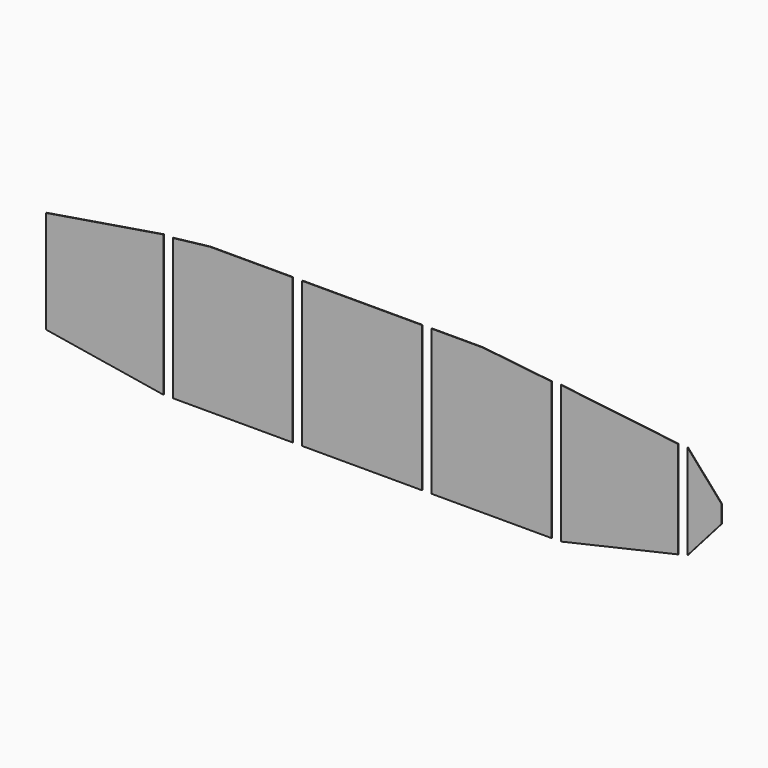
from build123d import *

# Parameters (mm, degrees)
F0_W     = 63.5
F0_H     = 77
F1_DEPTH = 0.3


with BuildPart() as f1:
    # F0 (on Front) → F1 (new body)
    with BuildSketch(Plane.XZ):
        Polygon((45.77241, 25.274221), (-16.32759, 32.574221), (-16.32759, -40.425779), (45.77241, -26.225779), align=None)
        Polygon((50.77241, 25.274221), (50.77241, -25.025779), (68.77241, -4.575779), (68.77241, 4.824221), align=None)
        Polygon((-288.92759, -30.275779), (-226.82759, -40.425779), (-226.82759, 34.274221), (-288.92759, 24.124221), align=None)
        Polygon((-158.32759, -40.425779), (-158.32759, 36.574221), (-202.12759, 36.574221), (-221.82759, 34.274221), (-221.82759, -40.425779), align=None)
        with Locations((-121.57759, -1.925779)):
            Rectangle(F0_W, F0_H)
        Polygon((-21.32759, -40.425779), (-21.32759, 32.574221), (-57.72759, 36.574221), (-84.82759, 36.574221), (-84.82759, -40.425779), align=None)
    extrude(amount=F1_DEPTH)


solid = f1.part
